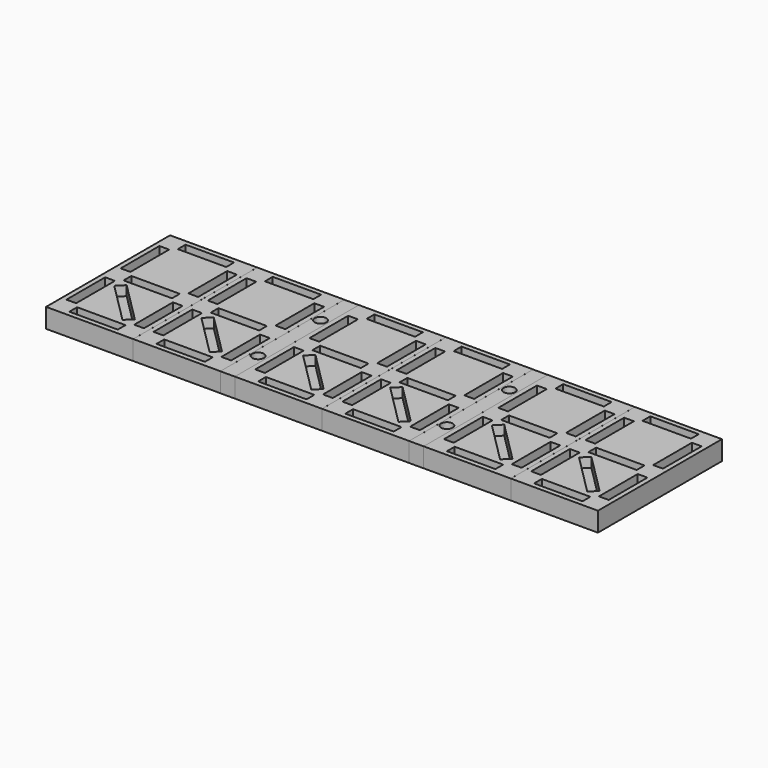
from build123d import *

# Parameters (mm, degrees)
SKETCH009_W             = 15
SKETCH009_H             = 160
SKETCH009_R             = 6
PAD009_DEPTH            = 20
SKETCH021_W             = 10.044149
SKETCH021_H             = 50.012402
PAD021_DEPTH            = 10
BODY021_PLACEMENT_ANGLE = 90
SKETCH022_W             = 10.044149
SKETCH022_H             = 50.012402
PAD022_DEPTH            = 10
SKETCH023_W             = 10.044149
SKETCH023_H             = 50.012402
PAD023_DEPTH            = 10
SKETCH024_W             = 10.044149
SKETCH024_H             = 50.012402
PAD024_DEPTH            = 10
SKETCH025_W             = 10.044149
SKETCH025_H             = 50.012402
PAD025_DEPTH            = 10
BODY025_PLACEMENT_ANGLE = 90
SKETCH026_W             = 10.044149
SKETCH026_H             = 50.012402
PAD026_DEPTH            = 10
BODY026_PLACEMENT_ANGLE = 90
SKETCH027_W             = 10.044149
SKETCH027_H             = 59.965978
PAD027_DEPTH            = 10
BODY027_PLACEMENT_ANGLE = 45
SKETCH020_W             = 10.044149
SKETCH020_H             = 50.012402
PAD020_DEPTH            = 10
SKETCH028_W             = 89.976477
SKETCH028_H             = 160.041601
PAD028_DEPTH            = 20
SKETCH030_W             = 10.044149
SKETCH030_H             = 50.012402
PAD030_DEPTH            = 10
BODY030_PLACEMENT_ANGLE = 90
SKETCH031_W             = 10.044149
SKETCH031_H             = 50.012402
PAD031_DEPTH            = 10
SKETCH032_W             = 10.044149
SKETCH032_H             = 50.012402
PAD032_DEPTH            = 10
SKETCH033_W             = 10.044149
SKETCH033_H             = 50.012402
PAD033_DEPTH            = 10
SKETCH034_W             = 10.044149
SKETCH034_H             = 50.012402
PAD034_DEPTH            = 10
BODY034_PLACEMENT_ANGLE = 90
SKETCH035_W             = 10.044149
SKETCH035_H             = 50.012402
PAD035_DEPTH            = 10
BODY035_PLACEMENT_ANGLE = 90
SKETCH036_W             = 10.044149
SKETCH036_H             = 59.965978
PAD036_DEPTH            = 10
BODY036_PLACEMENT_ANGLE = 45
SKETCH029_W             = 10.044149
SKETCH029_H             = 50.012402
PAD029_DEPTH            = 10
SKETCH037_W             = 89.976477
SKETCH037_H             = 160.041601
PAD037_DEPTH            = 20
SKETCH019_W             = 15
SKETCH019_H             = 160
SKETCH019_R             = 6
PAD019_DEPTH            = 20
SKETCH039_W             = 10.044149
SKETCH039_H             = 50.012402
PAD039_DEPTH            = 10
BODY039_PLACEMENT_ANGLE = 90
SKETCH040_W             = 10.044149
SKETCH040_H             = 50.012402
PAD040_DEPTH            = 10
SKETCH041_W             = 10.044149
SKETCH041_H             = 50.012402
PAD041_DEPTH            = 10
SKETCH042_W             = 10.044149
SKETCH042_H             = 50.012402
PAD042_DEPTH            = 10
SKETCH043_W             = 10.044149
SKETCH043_H             = 50.012402
PAD043_DEPTH            = 10
BODY043_PLACEMENT_ANGLE = 90
SKETCH044_W             = 10.044149
SKETCH044_H             = 50.012402
PAD044_DEPTH            = 10
BODY044_PLACEMENT_ANGLE = 90
SKETCH045_W             = 10.044149
SKETCH045_H             = 59.965978
PAD045_DEPTH            = 10
BODY045_PLACEMENT_ANGLE = 45
SKETCH038_W             = 10.044149
SKETCH038_H             = 50.012402
PAD038_DEPTH            = 10
SKETCH046_W             = 89.976477
SKETCH046_H             = 160.041601
PAD046_DEPTH            = 20
SKETCH048_W             = 10.044149
SKETCH048_H             = 50.012402
PAD048_DEPTH            = 10
BODY048_PLACEMENT_ANGLE = 90
SKETCH049_W             = 10.044149
SKETCH049_H             = 50.012402
PAD049_DEPTH            = 10
SKETCH050_W             = 10.044149
SKETCH050_H             = 50.012402
PAD050_DEPTH            = 10
SKETCH051_W             = 10.044149
SKETCH051_H             = 50.012402
PAD051_DEPTH            = 10
SKETCH052_W             = 10.044149
SKETCH052_H             = 50.012402
PAD052_DEPTH            = 10
BODY052_PLACEMENT_ANGLE = 90
SKETCH053_W             = 10.044149
SKETCH053_H             = 50.012402
PAD053_DEPTH            = 10
BODY053_PLACEMENT_ANGLE = 90
SKETCH054_W             = 10.044149
SKETCH054_H             = 59.965978
PAD054_DEPTH            = 10
BODY054_PLACEMENT_ANGLE = 45
SKETCH047_W             = 10.044149
SKETCH047_H             = 50.012402
PAD047_DEPTH            = 10
SKETCH055_W             = 89.976477
SKETCH055_H             = 160.041601
PAD055_DEPTH            = 20
SKETCH001_W             = 10.044149
SKETCH001_H             = 50.012402
PAD001_DEPTH            = 10
BODY001_PLACEMENT_ANGLE = 90
SKETCH002_W             = 10.044149
SKETCH002_H             = 50.012402
PAD002_DEPTH            = 10
SKETCH003_W             = 10.044149
SKETCH003_H             = 50.012402
PAD003_DEPTH            = 10
SKETCH004_W             = 10.044149
SKETCH004_H             = 50.012402
PAD004_DEPTH            = 10
SKETCH005_W             = 10.044149
SKETCH005_H             = 50.012402
PAD005_DEPTH            = 10
BODY005_PLACEMENT_ANGLE = 90
SKETCH006_W             = 10.044149
SKETCH006_H             = 50.012402
PAD006_DEPTH            = 10
BODY006_PLACEMENT_ANGLE = 90
SKETCH007_W             = 10.044149
SKETCH007_H             = 59.965978
PAD007_DEPTH            = 10
BODY007_PLACEMENT_ANGLE = 45
SKETCH_W                = 10.044149
SKETCH_H                = 50.012402
PAD_DEPTH               = 10
SKETCH008_W             = 89.976477
SKETCH008_H             = 160.041601
PAD008_DEPTH            = 20
SKETCH011_W             = 10.044149
SKETCH011_H             = 50.012402
PAD011_DEPTH            = 10
BODY011_PLACEMENT_ANGLE = 90
SKETCH012_W             = 10.044149
SKETCH012_H             = 50.012402
PAD012_DEPTH            = 10
SKETCH013_W             = 10.044149
SKETCH013_H             = 50.012402
PAD013_DEPTH            = 10
SKETCH014_W             = 10.044149
SKETCH014_H             = 50.012402
PAD014_DEPTH            = 10
SKETCH015_W             = 10.044149
SKETCH015_H             = 50.012402
PAD015_DEPTH            = 10
BODY015_PLACEMENT_ANGLE = 90
SKETCH016_W             = 10.044149
SKETCH016_H             = 50.012402
PAD016_DEPTH            = 10
BODY016_PLACEMENT_ANGLE = 90
SKETCH017_W             = 10.044149
SKETCH017_H             = 59.965978
PAD017_DEPTH            = 10
BODY017_PLACEMENT_ANGLE = 45
SKETCH010_W             = 10.044149
SKETCH010_H             = 50.012402
PAD010_DEPTH            = 10
SKETCH018_W             = 89.976477
SKETCH018_H             = 160.041601
PAD018_DEPTH            = 20


with BuildPart() as pointheures:
    # Sketch009 → Pad009 (new body)
    with BuildSketch(Plane.XY):
        with Locations((97.739456, -60.633478)):
            Rectangle(SKETCH009_W, SKETCH009_H)
        with Locations((97.739456, -20.633478)):
            Circle(SKETCH009_R, mode=Mode.SUBTRACT)
        with Locations((97.239456, -100.633478)):
            Circle(SKETCH009_R, mode=Mode.SUBTRACT)
    extrude(amount=PAD009_DEPTH)


with BuildPart() as pointheures_1:
    # Body009 placement: moved
    add(pointheures.part.moved(Location((-5.2, 0.5, -10))))


with BuildPart() as obj1:
    # Sketch021 → Pad021 (new body)
    with BuildSketch(Plane.XY):
        with Locations((5.022074, -25.006201)):
            Rectangle(SKETCH021_W, SKETCH021_H)
    extrude(amount=PAD021_DEPTH)


with BuildPart() as obj1_1:
    # Body021 placement: moved
    add(obj1.part.moved(Location((15, 5, 0))).rotate(Axis((15, 5, 0), (0, 0, 1)), BODY021_PLACEMENT_ANGLE))


with BuildPart() as obj2:
    # Sketch022 → Pad022 (new body)
    with BuildSketch(Plane.XY):
        with Locations((5.022074, -25.006201)):
            Rectangle(SKETCH022_W, SKETCH022_H)
    extrude(amount=PAD022_DEPTH)


with BuildPart() as obj2_1:
    # Body022 placement: moved
    add(obj2.part.moved(Location((70, 0, 0))))


with BuildPart() as obj3:
    # Sketch023 → Pad023 (new body)
    with BuildSketch(Plane.XY):
        with Locations((5.022074, -25.006201)):
            Rectangle(SKETCH023_W, SKETCH023_H)
    extrude(amount=PAD023_DEPTH)


with BuildPart() as obj3_1:
    # Body023 placement: moved
    add(obj3.part.moved(Location((0, -70, 0))))


with BuildPart() as obj4:
    # Sketch024 → Pad024 (new body)
    with BuildSketch(Plane.XY):
        with Locations((5.022074, -25.006201)):
            Rectangle(SKETCH024_W, SKETCH024_H)
    extrude(amount=PAD024_DEPTH)


with BuildPart() as obj4_1:
    # Body024 placement: moved
    add(obj4.part.moved(Location((70, -70, 0))))


with BuildPart() as obj5:
    # Sketch025 → Pad025 (new body)
    with BuildSketch(Plane.XY):
        with Locations((5.022074, -25.006201)):
            Rectangle(SKETCH025_W, SKETCH025_H)
    extrude(amount=PAD025_DEPTH)


with BuildPart() as obj5_1:
    # Body025 placement: moved
    add(obj5.part.moved(Location((15, -65, 0))).rotate(Axis((15, -65, 0), (0, 0, 1)), BODY025_PLACEMENT_ANGLE))


with BuildPart() as obj6:
    # Sketch026 → Pad026 (new body)
    with BuildSketch(Plane.XY):
        with Locations((5.022074, -25.006201)):
            Rectangle(SKETCH026_W, SKETCH026_H)
    extrude(amount=PAD026_DEPTH)


with BuildPart() as obj6_1:
    # Body026 placement: moved
    add(obj6.part.moved(Location((15, -135, 0))).rotate(Axis((15, -135, 0), (0, 0, 1)), BODY026_PLACEMENT_ANGLE))


with BuildPart() as obj7:
    # Sketch027 → Pad027 (new body)
    with BuildSketch(Plane.XY):
        with Locations((5.022074, -29.982989)):
            Rectangle(SKETCH027_W, SKETCH027_H)
    extrude(amount=PAD027_DEPTH)


with BuildPart() as obj7_1:
    # Body027 placement: moved
    add(obj7.part.moved(Location((15, -77, 0))).rotate(Axis((15, -77, 0), (0, 0, 1)), BODY027_PLACEMENT_ANGLE))


with BuildPart() as fusion003:
    # Sketch020 → Pad020 (new body)
    with BuildSketch(Plane.XY):
        with Locations((5.022074, -25.006201)):
            Rectangle(SKETCH020_W, SKETCH020_H)
    extrude(amount=PAD020_DEPTH)

    # Fusion003: union obj1, obj2, obj3, obj4, obj5, obj6, obj7
    add(obj1_1.part)
    add(obj2_1.part)
    add(obj3_1.part)
    add(obj4_1.part)
    add(obj5_1.part)
    add(obj6_1.part)
    add(obj7_1.part)


with BuildPart() as digit1h001:
    # Sketch028 → Pad028 (new body)
    with BuildSketch(Plane.XY):
        with Locations((40.029835, -60.057797)):
            Rectangle(SKETCH028_W, SKETCH028_H)
    extrude(amount=PAD028_DEPTH)


with BuildPart() as digit1h001_1:
    # Body028 placement: moved
    add(digit1h001.part.moved(Location((0, 0, -10))))

    # Cut002: cut Fusion003
    add(fusion003.part, mode=Mode.SUBTRACT)


with BuildPart() as obj8:
    # Sketch030 → Pad030 (new body)
    with BuildSketch(Plane.XY):
        with Locations((5.022074, -25.006201)):
            Rectangle(SKETCH030_W, SKETCH030_H)
    extrude(amount=PAD030_DEPTH)


with BuildPart() as obj8_1:
    # Body030 placement: moved
    add(obj8.part.moved(Location((15, 5, 0))).rotate(Axis((15, 5, 0), (0, 0, 1)), BODY030_PLACEMENT_ANGLE))


with BuildPart() as obj9:
    # Sketch031 → Pad031 (new body)
    with BuildSketch(Plane.XY):
        with Locations((5.022074, -25.006201)):
            Rectangle(SKETCH031_W, SKETCH031_H)
    extrude(amount=PAD031_DEPTH)


with BuildPart() as obj9_1:
    # Body031 placement: moved
    add(obj9.part.moved(Location((70, 0, 0))))


with BuildPart() as obj10:
    # Sketch032 → Pad032 (new body)
    with BuildSketch(Plane.XY):
        with Locations((5.022074, -25.006201)):
            Rectangle(SKETCH032_W, SKETCH032_H)
    extrude(amount=PAD032_DEPTH)


with BuildPart() as obj10_1:
    # Body032 placement: moved
    add(obj10.part.moved(Location((0, -70, 0))))


with BuildPart() as obj11:
    # Sketch033 → Pad033 (new body)
    with BuildSketch(Plane.XY):
        with Locations((5.022074, -25.006201)):
            Rectangle(SKETCH033_W, SKETCH033_H)
    extrude(amount=PAD033_DEPTH)


with BuildPart() as obj11_1:
    # Body033 placement: moved
    add(obj11.part.moved(Location((70, -70, 0))))


with BuildPart() as obj12:
    # Sketch034 → Pad034 (new body)
    with BuildSketch(Plane.XY):
        with Locations((5.022074, -25.006201)):
            Rectangle(SKETCH034_W, SKETCH034_H)
    extrude(amount=PAD034_DEPTH)


with BuildPart() as obj12_1:
    # Body034 placement: moved
    add(obj12.part.moved(Location((15, -65, 0))).rotate(Axis((15, -65, 0), (0, 0, 1)), BODY034_PLACEMENT_ANGLE))


with BuildPart() as obj13:
    # Sketch035 → Pad035 (new body)
    with BuildSketch(Plane.XY):
        with Locations((5.022074, -25.006201)):
            Rectangle(SKETCH035_W, SKETCH035_H)
    extrude(amount=PAD035_DEPTH)


with BuildPart() as obj13_1:
    # Body035 placement: moved
    add(obj13.part.moved(Location((15, -135, 0))).rotate(Axis((15, -135, 0), (0, 0, 1)), BODY035_PLACEMENT_ANGLE))


with BuildPart() as obj14:
    # Sketch036 → Pad036 (new body)
    with BuildSketch(Plane.XY):
        with Locations((5.022074, -29.982989)):
            Rectangle(SKETCH036_W, SKETCH036_H)
    extrude(amount=PAD036_DEPTH)


with BuildPart() as obj14_1:
    # Body036 placement: moved
    add(obj14.part.moved(Location((15, -77, 0))).rotate(Axis((15, -77, 0), (0, 0, 1)), BODY036_PLACEMENT_ANGLE))


with BuildPart() as fusion004:
    # Sketch029 → Pad029 (new body)
    with BuildSketch(Plane.XY):
        with Locations((5.022074, -25.006201)):
            Rectangle(SKETCH029_W, SKETCH029_H)
    extrude(amount=PAD029_DEPTH)

    # Fusion004: union obj8, obj9, obj10, obj11, obj12, obj13, obj14
    add(obj8_1.part)
    add(obj9_1.part)
    add(obj10_1.part)
    add(obj11_1.part)
    add(obj12_1.part)
    add(obj13_1.part)
    add(obj14_1.part)


with BuildPart() as minutes:
    # Sketch037 → Pad037 (new body)
    with BuildSketch(Plane.XY):
        with Locations((40.029835, -60.057797)):
            Rectangle(SKETCH037_W, SKETCH037_H)
    extrude(amount=PAD037_DEPTH)


with BuildPart() as minutes_1:
    # Body037 placement: moved
    add(minutes.part.moved(Location((0, 0, -10))))

    # Cut003: cut Fusion004
    add(fusion004.part, mode=Mode.SUBTRACT)


with BuildPart() as minutes_2:
    # Cut003 placement: moved
    add(minutes_1.part.moved(Location((-90, 0, 0))))

    # Fusion005: union Digit1h001
    add(digit1h001_1.part)


with BuildPart() as minutes_3:
    # Fusion005 placement: moved
    add(minutes_2.part.moved(Location((195, 0, 0))))


with BuildPart() as pointminutes:
    # Sketch019 → Pad019 (new body)
    with BuildSketch(Plane.XY):
        with Locations((97.739456, -60.633478)):
            Rectangle(SKETCH019_W, SKETCH019_H)
        with Locations((97.739456, -20.633478)):
            Circle(SKETCH019_R, mode=Mode.SUBTRACT)
        with Locations((97.239456, -100.633478)):
            Circle(SKETCH019_R, mode=Mode.SUBTRACT)
    extrude(amount=PAD019_DEPTH)


with BuildPart() as pointminutes_1:
    # Body019 placement: moved
    add(pointminutes.part.moved(Location((189.8, 0.5, -10))))


with BuildPart() as obj15:
    # Sketch039 → Pad039 (new body)
    with BuildSketch(Plane.XY):
        with Locations((5.022074, -25.006201)):
            Rectangle(SKETCH039_W, SKETCH039_H)
    extrude(amount=PAD039_DEPTH)


with BuildPart() as obj15_1:
    # Body039 placement: moved
    add(obj15.part.moved(Location((15, 5, 0))).rotate(Axis((15, 5, 0), (0, 0, 1)), BODY039_PLACEMENT_ANGLE))


with BuildPart() as obj16:
    # Sketch040 → Pad040 (new body)
    with BuildSketch(Plane.XY):
        with Locations((5.022074, -25.006201)):
            Rectangle(SKETCH040_W, SKETCH040_H)
    extrude(amount=PAD040_DEPTH)


with BuildPart() as obj16_1:
    # Body040 placement: moved
    add(obj16.part.moved(Location((70, 0, 0))))


with BuildPart() as obj17:
    # Sketch041 → Pad041 (new body)
    with BuildSketch(Plane.XY):
        with Locations((5.022074, -25.006201)):
            Rectangle(SKETCH041_W, SKETCH041_H)
    extrude(amount=PAD041_DEPTH)


with BuildPart() as obj17_1:
    # Body041 placement: moved
    add(obj17.part.moved(Location((0, -70, 0))))


with BuildPart() as obj18:
    # Sketch042 → Pad042 (new body)
    with BuildSketch(Plane.XY):
        with Locations((5.022074, -25.006201)):
            Rectangle(SKETCH042_W, SKETCH042_H)
    extrude(amount=PAD042_DEPTH)


with BuildPart() as obj18_1:
    # Body042 placement: moved
    add(obj18.part.moved(Location((70, -70, 0))))


with BuildPart() as obj19:
    # Sketch043 → Pad043 (new body)
    with BuildSketch(Plane.XY):
        with Locations((5.022074, -25.006201)):
            Rectangle(SKETCH043_W, SKETCH043_H)
    extrude(amount=PAD043_DEPTH)


with BuildPart() as obj19_1:
    # Body043 placement: moved
    add(obj19.part.moved(Location((15, -65, 0))).rotate(Axis((15, -65, 0), (0, 0, 1)), BODY043_PLACEMENT_ANGLE))


with BuildPart() as obj20:
    # Sketch044 → Pad044 (new body)
    with BuildSketch(Plane.XY):
        with Locations((5.022074, -25.006201)):
            Rectangle(SKETCH044_W, SKETCH044_H)
    extrude(amount=PAD044_DEPTH)


with BuildPart() as obj20_1:
    # Body044 placement: moved
    add(obj20.part.moved(Location((15, -135, 0))).rotate(Axis((15, -135, 0), (0, 0, 1)), BODY044_PLACEMENT_ANGLE))


with BuildPart() as obj21:
    # Sketch045 → Pad045 (new body)
    with BuildSketch(Plane.XY):
        with Locations((5.022074, -29.982989)):
            Rectangle(SKETCH045_W, SKETCH045_H)
    extrude(amount=PAD045_DEPTH)


with BuildPart() as obj21_1:
    # Body045 placement: moved
    add(obj21.part.moved(Location((15, -77, 0))).rotate(Axis((15, -77, 0), (0, 0, 1)), BODY045_PLACEMENT_ANGLE))


with BuildPart() as fusion006:
    # Sketch038 → Pad038 (new body)
    with BuildSketch(Plane.XY):
        with Locations((5.022074, -25.006201)):
            Rectangle(SKETCH038_W, SKETCH038_H)
    extrude(amount=PAD038_DEPTH)

    # Fusion006: union obj15, obj16, obj17, obj18, obj19, obj20, obj21
    add(obj15_1.part)
    add(obj16_1.part)
    add(obj17_1.part)
    add(obj18_1.part)
    add(obj19_1.part)
    add(obj20_1.part)
    add(obj21_1.part)


with BuildPart() as digit1h002:
    # Sketch046 → Pad046 (new body)
    with BuildSketch(Plane.XY):
        with Locations((40.029835, -60.057797)):
            Rectangle(SKETCH046_W, SKETCH046_H)
    extrude(amount=PAD046_DEPTH)


with BuildPart() as digit1h002_1:
    # Body046 placement: moved
    add(digit1h002.part.moved(Location((0, 0, -10))))

    # Cut004: cut Fusion006
    add(fusion006.part, mode=Mode.SUBTRACT)


with BuildPart() as obj22:
    # Sketch048 → Pad048 (new body)
    with BuildSketch(Plane.XY):
        with Locations((5.022074, -25.006201)):
            Rectangle(SKETCH048_W, SKETCH048_H)
    extrude(amount=PAD048_DEPTH)


with BuildPart() as obj22_1:
    # Body048 placement: moved
    add(obj22.part.moved(Location((15, 5, 0))).rotate(Axis((15, 5, 0), (0, 0, 1)), BODY048_PLACEMENT_ANGLE))


with BuildPart() as obj23:
    # Sketch049 → Pad049 (new body)
    with BuildSketch(Plane.XY):
        with Locations((5.022074, -25.006201)):
            Rectangle(SKETCH049_W, SKETCH049_H)
    extrude(amount=PAD049_DEPTH)


with BuildPart() as obj23_1:
    # Body049 placement: moved
    add(obj23.part.moved(Location((70, 0, 0))))


with BuildPart() as obj24:
    # Sketch050 → Pad050 (new body)
    with BuildSketch(Plane.XY):
        with Locations((5.022074, -25.006201)):
            Rectangle(SKETCH050_W, SKETCH050_H)
    extrude(amount=PAD050_DEPTH)


with BuildPart() as obj24_1:
    # Body050 placement: moved
    add(obj24.part.moved(Location((0, -70, 0))))


with BuildPart() as obj25:
    # Sketch051 → Pad051 (new body)
    with BuildSketch(Plane.XY):
        with Locations((5.022074, -25.006201)):
            Rectangle(SKETCH051_W, SKETCH051_H)
    extrude(amount=PAD051_DEPTH)


with BuildPart() as obj25_1:
    # Body051 placement: moved
    add(obj25.part.moved(Location((70, -70, 0))))


with BuildPart() as obj26:
    # Sketch052 → Pad052 (new body)
    with BuildSketch(Plane.XY):
        with Locations((5.022074, -25.006201)):
            Rectangle(SKETCH052_W, SKETCH052_H)
    extrude(amount=PAD052_DEPTH)


with BuildPart() as obj26_1:
    # Body052 placement: moved
    add(obj26.part.moved(Location((15, -65, 0))).rotate(Axis((15, -65, 0), (0, 0, 1)), BODY052_PLACEMENT_ANGLE))


with BuildPart() as obj27:
    # Sketch053 → Pad053 (new body)
    with BuildSketch(Plane.XY):
        with Locations((5.022074, -25.006201)):
            Rectangle(SKETCH053_W, SKETCH053_H)
    extrude(amount=PAD053_DEPTH)


with BuildPart() as obj27_1:
    # Body053 placement: moved
    add(obj27.part.moved(Location((15, -135, 0))).rotate(Axis((15, -135, 0), (0, 0, 1)), BODY053_PLACEMENT_ANGLE))


with BuildPart() as obj28:
    # Sketch054 → Pad054 (new body)
    with BuildSketch(Plane.XY):
        with Locations((5.022074, -29.982989)):
            Rectangle(SKETCH054_W, SKETCH054_H)
    extrude(amount=PAD054_DEPTH)


with BuildPart() as obj28_1:
    # Body054 placement: moved
    add(obj28.part.moved(Location((15, -77, 0))).rotate(Axis((15, -77, 0), (0, 0, 1)), BODY054_PLACEMENT_ANGLE))


with BuildPart() as fusion007:
    # Sketch047 → Pad047 (new body)
    with BuildSketch(Plane.XY):
        with Locations((5.022074, -25.006201)):
            Rectangle(SKETCH047_W, SKETCH047_H)
    extrude(amount=PAD047_DEPTH)

    # Fusion007: union obj22, obj23, obj24, obj25, obj26, obj27, obj28
    add(obj22_1.part)
    add(obj23_1.part)
    add(obj24_1.part)
    add(obj25_1.part)
    add(obj26_1.part)
    add(obj27_1.part)
    add(obj28_1.part)


with BuildPart() as obj29:
    # Sketch055 → Pad055 (new body)
    with BuildSketch(Plane.XY):
        with Locations((40.029835, -60.057797)):
            Rectangle(SKETCH055_W, SKETCH055_H)
    extrude(amount=PAD055_DEPTH)


with BuildPart() as obj29_1:
    # Body055 placement: moved
    add(obj29.part.moved(Location((0, 0, -10))))

    # Cut005: cut Fusion007
    add(fusion007.part, mode=Mode.SUBTRACT)


with BuildPart() as obj29_2:
    # Cut005 placement: moved
    add(obj29_1.part.moved(Location((-90, 0, 0))))

    # Fusion008: union Digit1h002
    add(digit1h002_1.part)


with BuildPart() as obj29_3:
    # Fusion008 placement: moved
    add(obj29_2.part.moved(Location((390, 0, 0))))


with BuildPart() as obj30:
    # Sketch001 → Pad001 (new body)
    with BuildSketch(Plane.XY):
        with Locations((5.022074, -25.006201)):
            Rectangle(SKETCH001_W, SKETCH001_H)
    extrude(amount=PAD001_DEPTH)


with BuildPart() as obj30_1:
    # Body001 placement: moved
    add(obj30.part.moved(Location((15, 5, 0))).rotate(Axis((15, 5, 0), (0, 0, 1)), BODY001_PLACEMENT_ANGLE))


with BuildPart() as obj31:
    # Sketch002 → Pad002 (new body)
    with BuildSketch(Plane.XY):
        with Locations((5.022074, -25.006201)):
            Rectangle(SKETCH002_W, SKETCH002_H)
    extrude(amount=PAD002_DEPTH)


with BuildPart() as obj31_1:
    # Body002 placement: moved
    add(obj31.part.moved(Location((70, 0, 0))))


with BuildPart() as obj32:
    # Sketch003 → Pad003 (new body)
    with BuildSketch(Plane.XY):
        with Locations((5.022074, -25.006201)):
            Rectangle(SKETCH003_W, SKETCH003_H)
    extrude(amount=PAD003_DEPTH)


with BuildPart() as obj32_1:
    # Body003 placement: moved
    add(obj32.part.moved(Location((0, -70, 0))))


with BuildPart() as obj33:
    # Sketch004 → Pad004 (new body)
    with BuildSketch(Plane.XY):
        with Locations((5.022074, -25.006201)):
            Rectangle(SKETCH004_W, SKETCH004_H)
    extrude(amount=PAD004_DEPTH)


with BuildPart() as obj33_1:
    # Body004 placement: moved
    add(obj33.part.moved(Location((70, -70, 0))))


with BuildPart() as obj34:
    # Sketch005 → Pad005 (new body)
    with BuildSketch(Plane.XY):
        with Locations((5.022074, -25.006201)):
            Rectangle(SKETCH005_W, SKETCH005_H)
    extrude(amount=PAD005_DEPTH)


with BuildPart() as obj34_1:
    # Body005 placement: moved
    add(obj34.part.moved(Location((15, -65, 0))).rotate(Axis((15, -65, 0), (0, 0, 1)), BODY005_PLACEMENT_ANGLE))


with BuildPart() as obj35:
    # Sketch006 → Pad006 (new body)
    with BuildSketch(Plane.XY):
        with Locations((5.022074, -25.006201)):
            Rectangle(SKETCH006_W, SKETCH006_H)
    extrude(amount=PAD006_DEPTH)


with BuildPart() as obj35_1:
    # Body006 placement: moved
    add(obj35.part.moved(Location((15, -135, 0))).rotate(Axis((15, -135, 0), (0, 0, 1)), BODY006_PLACEMENT_ANGLE))


with BuildPart() as obj36:
    # Sketch007 → Pad007 (new body)
    with BuildSketch(Plane.XY):
        with Locations((5.022074, -29.982989)):
            Rectangle(SKETCH007_W, SKETCH007_H)
    extrude(amount=PAD007_DEPTH)


with BuildPart() as obj36_1:
    # Body007 placement: moved
    add(obj36.part.moved(Location((15, -77, 0))).rotate(Axis((15, -77, 0), (0, 0, 1)), BODY007_PLACEMENT_ANGLE))


with BuildPart() as fusion:
    # Sketch → Pad (new body)
    with BuildSketch(Plane.XY):
        with Locations((5.022074, -25.006201)):
            Rectangle(SKETCH_W, SKETCH_H)
    extrude(amount=PAD_DEPTH)

    # Fusion: union obj30, obj31, obj32, obj33, obj34, obj35, obj36
    add(obj30_1.part)
    add(obj31_1.part)
    add(obj32_1.part)
    add(obj33_1.part)
    add(obj34_1.part)
    add(obj35_1.part)
    add(obj36_1.part)


with BuildPart() as digit1h:
    # Sketch008 → Pad008 (new body)
    with BuildSketch(Plane.XY):
        with Locations((40.029835, -60.057797)):
            Rectangle(SKETCH008_W, SKETCH008_H)
    extrude(amount=PAD008_DEPTH)


with BuildPart() as digit1h_1:
    # Body008 placement: moved
    add(digit1h.part.moved(Location((0, 0, -10))))

    # Cut: cut Fusion
    add(fusion.part, mode=Mode.SUBTRACT)


with BuildPart() as obj37:
    # Sketch011 → Pad011 (new body)
    with BuildSketch(Plane.XY):
        with Locations((5.022074, -25.006201)):
            Rectangle(SKETCH011_W, SKETCH011_H)
    extrude(amount=PAD011_DEPTH)


with BuildPart() as obj37_1:
    # Body011 placement: moved
    add(obj37.part.moved(Location((15, 5, 0))).rotate(Axis((15, 5, 0), (0, 0, 1)), BODY011_PLACEMENT_ANGLE))


with BuildPart() as obj38:
    # Sketch012 → Pad012 (new body)
    with BuildSketch(Plane.XY):
        with Locations((5.022074, -25.006201)):
            Rectangle(SKETCH012_W, SKETCH012_H)
    extrude(amount=PAD012_DEPTH)


with BuildPart() as obj38_1:
    # Body012 placement: moved
    add(obj38.part.moved(Location((70, 0, 0))))


with BuildPart() as obj39:
    # Sketch013 → Pad013 (new body)
    with BuildSketch(Plane.XY):
        with Locations((5.022074, -25.006201)):
            Rectangle(SKETCH013_W, SKETCH013_H)
    extrude(amount=PAD013_DEPTH)


with BuildPart() as obj39_1:
    # Body013 placement: moved
    add(obj39.part.moved(Location((0, -70, 0))))


with BuildPart() as obj40:
    # Sketch014 → Pad014 (new body)
    with BuildSketch(Plane.XY):
        with Locations((5.022074, -25.006201)):
            Rectangle(SKETCH014_W, SKETCH014_H)
    extrude(amount=PAD014_DEPTH)


with BuildPart() as obj40_1:
    # Body014 placement: moved
    add(obj40.part.moved(Location((70, -70, 0))))


with BuildPart() as obj41:
    # Sketch015 → Pad015 (new body)
    with BuildSketch(Plane.XY):
        with Locations((5.022074, -25.006201)):
            Rectangle(SKETCH015_W, SKETCH015_H)
    extrude(amount=PAD015_DEPTH)


with BuildPart() as obj41_1:
    # Body015 placement: moved
    add(obj41.part.moved(Location((15, -65, 0))).rotate(Axis((15, -65, 0), (0, 0, 1)), BODY015_PLACEMENT_ANGLE))


with BuildPart() as obj42:
    # Sketch016 → Pad016 (new body)
    with BuildSketch(Plane.XY):
        with Locations((5.022074, -25.006201)):
            Rectangle(SKETCH016_W, SKETCH016_H)
    extrude(amount=PAD016_DEPTH)


with BuildPart() as obj42_1:
    # Body016 placement: moved
    add(obj42.part.moved(Location((15, -135, 0))).rotate(Axis((15, -135, 0), (0, 0, 1)), BODY016_PLACEMENT_ANGLE))


with BuildPart() as obj43:
    # Sketch017 → Pad017 (new body)
    with BuildSketch(Plane.XY):
        with Locations((5.022074, -29.982989)):
            Rectangle(SKETCH017_W, SKETCH017_H)
    extrude(amount=PAD017_DEPTH)


with BuildPart() as obj43_1:
    # Body017 placement: moved
    add(obj43.part.moved(Location((15, -77, 0))).rotate(Axis((15, -77, 0), (0, 0, 1)), BODY017_PLACEMENT_ANGLE))


with BuildPart() as fusion001:
    # Sketch010 → Pad010 (new body)
    with BuildSketch(Plane.XY):
        with Locations((5.022074, -25.006201)):
            Rectangle(SKETCH010_W, SKETCH010_H)
    extrude(amount=PAD010_DEPTH)

    # Fusion001: union obj37, obj38, obj39, obj40, obj41, obj42, obj43
    add(obj37_1.part)
    add(obj38_1.part)
    add(obj39_1.part)
    add(obj40_1.part)
    add(obj41_1.part)
    add(obj42_1.part)
    add(obj43_1.part)


with BuildPart() as panel_temps:
    # Sketch018 → Pad018 (new body)
    with BuildSketch(Plane.XY):
        with Locations((40.029835, -60.057797)):
            Rectangle(SKETCH018_W, SKETCH018_H)
    extrude(amount=PAD018_DEPTH)


with BuildPart() as panel_temps_1:
    # Body018 placement: moved
    add(panel_temps.part.moved(Location((0, 0, -10))))

    # Cut001: cut Fusion001
    add(fusion001.part, mode=Mode.SUBTRACT)


with BuildPart() as panel_temps_2:
    # Cut001 placement: moved
    add(panel_temps_1.part.moved(Location((-90, 0, 0))))

    # Fusion002: union Digit1h
    add(digit1h_1.part)

    # Fusion009: union PointHeures, Minutes, PointMinutes, obj29
    add(pointheures_1.part)
    add(minutes_3.part)
    add(pointminutes_1.part)
    add(obj29_3.part)


solid = panel_temps_2.part
